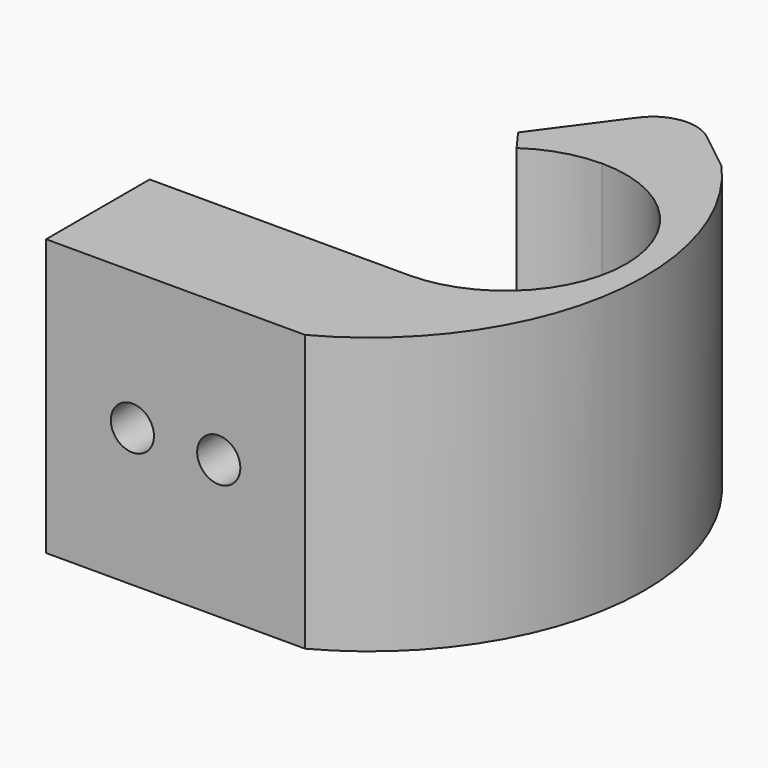
from build123d import *

# Parameters (mm, degrees)
F1_DEPTH = 5.08
F2_W     = 38.1
F2_H     = 6.35
F3_DEPTH = 30.48
F4_W     = 38.1
F4_H     = 6.35
F4_H_2   = 12.7
F5_DEPTH = 5.08
F7_DEPTH = 40.64
F8_R     = 3.175
F9_DEPTH = 25.4


with BuildPart() as f1:
    # F0 (on Top) → F1 (new body)
    with BuildSketch(Plane.XY):
        Polygon((-77.543311, 10.219596), (-77.543311, 3.869596), (-39.443311, 3.869596), (-39.443311, 10.219596), (-39.443311, 16.569596), (-39.443311, 22.919596), (-77.543311, 22.919596), (-77.543311, 16.569596), align=None)
    extrude(amount=F1_DEPTH)

    # F2 (on face) → F3 (join)
    with BuildSketch(Plane.XY.offset(5.08)):
        with Locations((-58.493311, 19.744596)):
            Rectangle(F2_W, F2_H)
        with Locations((-58.493311, 7.044596)):
            Rectangle(F2_W, F2_H)
    extrude(amount=F3_DEPTH)

    # F4 (on face) → F5 (join)
    with BuildSketch(Plane.XY.offset(35.56)):
        with Locations((-58.493311, 7.044596)):
            Rectangle(F4_W, F4_H)
        with Locations((-58.493311, 16.569596)):
            Rectangle(F4_W, F4_H_2)
    extrude(amount=F5_DEPTH)

    # F6 (on face) → F7 (join, through all)
    with BuildSketch(Plane.XY.offset(40.64)):
        with BuildLine():
            ThreePointArc((-39.443311, 58.479596), (-21.663311, 40.699596), (-39.443311, 22.919596))
            Line((-39.443311, 22.919596), (-39.443311, 3.869596))
            ThreePointArc((-39.443311, 3.869596), (-18.668383, 32.543039), (-28.358519, 66.599833))
            Line((-28.358519, 66.599833), (-30.095377, 67.966251))
            ThreePointArc((-30.095377, 67.966251), (-36.355643, 67.8164), (-39.443311, 62.368493))
            Line((-39.443311, 62.368493), (-39.443311, 58.479596))
        make_face()
        with BuildLine():
            ThreePointArc((-51.803668, 58.497424), (-45.919491, 61.378092), (-39.443311, 62.368493))
            ThreePointArc((-39.443311, 62.368493), (-36.355643, 67.8164), (-30.095377, 67.966251))
            Line((-30.095377, 67.966251), (-34.285495, 71.262692))
            ThreePointArc((-34.285495, 71.262692), (-39.06814, 72.563992), (-43.329022, 70.031807))
            Line((-43.329022, 70.031807), (-51.803668, 58.497424))
        make_face()
        with BuildLine():
            ThreePointArc((-49.514539, 55.352199), (-44.716124, 57.679756), (-39.443311, 58.479596))
            Line((-39.443311, 58.479596), (-39.443311, 62.368493))
            ThreePointArc((-39.443311, 62.368493), (-45.919491, 61.378092), (-51.803668, 58.497424))
            Line((-51.803668, 58.497424), (-49.514539, 55.352199))
        make_face()
    extrude(amount=-F7_DEPTH)

    # F8 (on face) → F9 (cut)
    with BuildSketch(Plane(origin=(0, 22.919596, 0), x_dir=(-1, 0, 0), z_dir=(0, 1, 0))):
        with Locations((64.843311, 20.32)):
            Circle(F8_R)
        with Locations((52.143311, 20.32)):
            Circle(F8_R)
    extrude(amount=-F9_DEPTH, mode=Mode.SUBTRACT)


solid = f1.part
